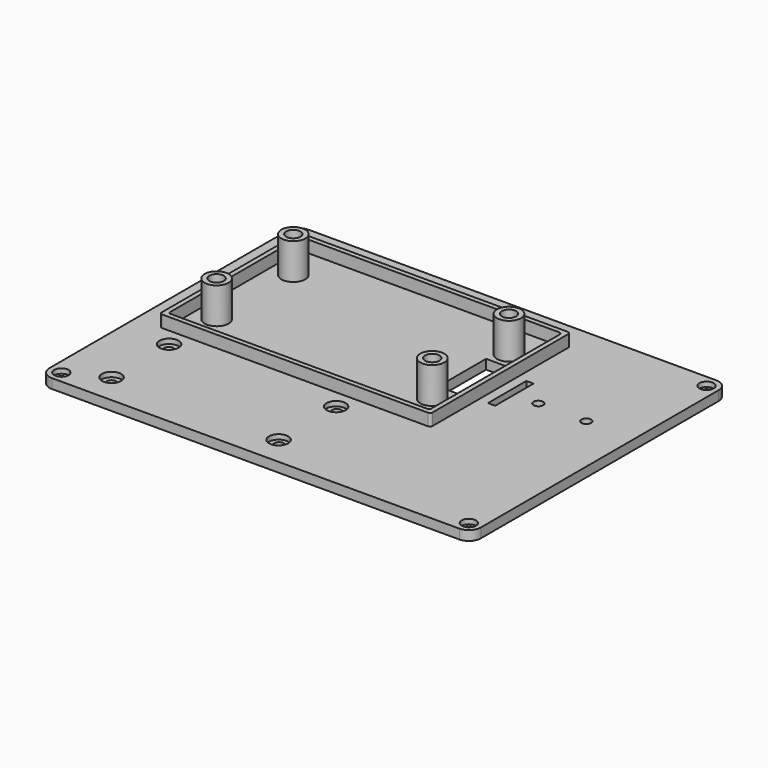
from build123d import *

# Parameters (mm, degrees)
SKETCH_W        = 180
SKETCH_H        = 134
PAD_DEPTH       = 4
SKETCH001_R     = 1.5
POCKET_DEPTH    = 4
SKETCH002_W     = 113
SKETCH002_H     = 73
SKETCH002_W_2   = 109
SKETCH002_H_2   = 69
PAD001_DEPTH    = 5
SKETCH003_R     = 2
SKETCH003_W     = 10
SKETCH003_H     = 25
POCKET001_DEPTH = 4
SKETCH004_R     = 3
POCKET002_DEPTH = 2
FILLET_R        = 5
FILLET001_R     = 5
FILLET002_R     = 5
FILLET003_R     = 5
FILLET004_R     = 1
FILLET005_R     = 1
FILLET006_R     = 1
FILLET007_R     = 1
FILLET008_R     = 1
FILLET009_R     = 1
FILLET010_R     = 1
FILLET011_R     = 1
SKETCH005_R     = 5
SKETCH005_R_2   = 3
PAD002_DEPTH    = 15
SKETCH006_R     = 2
SKETCH006_W     = 3
SKETCH006_H     = 20
POCKET003_DEPTH = 5
SKETCH007_R     = 4
POCKET004_DEPTH = 2


with BuildPart() as part:
    # Sketch → Pad (new body)
    with BuildSketch(Plane.XY):
        with Locations((90, 67)):
            Rectangle(SKETCH_W, SKETCH_H)
    extrude(amount=PAD_DEPTH)

    # Sketch001 → Pocket (cut)
    with BuildSketch(Plane.XY.offset(4)):
        with Locations((5, 129)):
            Circle(SKETCH001_R)
        with Locations((175, 129)):
            Circle(SKETCH001_R)
        with Locations((5, 5)):
            Circle(SKETCH001_R)
        with Locations((175, 5)):
            Circle(SKETCH001_R)
    extrude(amount=-POCKET_DEPTH, mode=Mode.SUBTRACT)

    # Sketch002 → Pad001 (new body)
    with BuildSketch(Plane.XY.offset(4)):
        with Locations((66.5, 86.5)):
            Rectangle(SKETCH002_W, SKETCH002_H)
        with Locations((66.5, 86.5)):
            Rectangle(SKETCH002_W_2, SKETCH002_H_2, mode=Mode.SUBTRACT)
    extrude(amount=PAD001_DEPTH)

    # Sketch003 → Pocket001 (cut)
    with BuildSketch(Plane.XY.offset(4)):
        with Locations((21, 106)):
            Circle(SKETCH003_R)
        with Locations((111, 106)):
            Circle(SKETCH003_R)
        with Locations((21, 66)):
            Circle(SKETCH003_R)
        with Locations((111, 66)):
            Circle(SKETCH003_R)
        with Locations((112, 86.5)):
            Rectangle(SKETCH003_W, SKETCH003_H)
    extrude(amount=-POCKET001_DEPTH, mode=Mode.SUBTRACT)

    # Sketch004 → Pocket002 (cut)
    with BuildSketch(Plane.XY.offset(4)):
        with Locations((5, 5)):
            Circle(SKETCH004_R)
        with Locations((175, 5)):
            Circle(SKETCH004_R)
        with Locations((5, 129)):
            Circle(SKETCH004_R)
        with Locations((175, 129)):
            Circle(SKETCH004_R)
    extrude(amount=-POCKET002_DEPTH, mode=Mode.SUBTRACT)

    # Fillet
    fillet_edges = [part.edges().sort_by_distance(p)[0] for p in [
        (0, 0, 2),
    ]]
    fillet(fillet_edges, radius=FILLET_R)

    # Fillet001
    fillet001_edges = [part.edges().sort_by_distance(p)[0] for p in [
        (180, 0, 2),
    ]]
    fillet(fillet001_edges, radius=FILLET001_R)

    # Fillet002
    fillet002_edges = [part.edges().sort_by_distance(p)[0] for p in [
        (180, 134, 2),
    ]]
    fillet(fillet002_edges, radius=FILLET002_R)

    # Fillet003
    fillet003_edges = [part.edges().sort_by_distance(p)[0] for p in [
        (0, 134, 2),
    ]]
    fillet(fillet003_edges, radius=FILLET003_R)

    # Fillet004
    fillet004_edges = [part.edges().sort_by_distance(p)[0] for p in [
        (10, 50, 6.5),
    ]]
    fillet(fillet004_edges, radius=FILLET004_R)

    # Fillet005
    fillet005_edges = [part.edges().sort_by_distance(p)[0] for p in [
        (12, 52, 6.5),
    ]]
    fillet(fillet005_edges, radius=FILLET005_R)

    # Fillet006
    fillet006_edges = [part.edges().sort_by_distance(p)[0] for p in [
        (123, 50, 6.5),
    ]]
    fillet(fillet006_edges, radius=FILLET006_R)

    # Fillet007
    fillet007_edges = [part.edges().sort_by_distance(p)[0] for p in [
        (121, 52, 6.5),
    ]]
    fillet(fillet007_edges, radius=FILLET007_R)

    # Fillet008
    fillet008_edges = [part.edges().sort_by_distance(p)[0] for p in [
        (121, 121, 6.5),
    ]]
    fillet(fillet008_edges, radius=FILLET008_R)

    # Fillet009
    fillet009_edges = [part.edges().sort_by_distance(p)[0] for p in [
        (123, 123, 6.5),
    ]]
    fillet(fillet009_edges, radius=FILLET009_R)

    # Fillet010
    fillet010_edges = [part.edges().sort_by_distance(p)[0] for p in [
        (10, 123, 6.5),
    ]]
    fillet(fillet010_edges, radius=FILLET010_R)

    # Fillet011
    fillet011_edges = [part.edges().sort_by_distance(p)[0] for p in [
        (12, 121, 6.5),
    ]]
    fillet(fillet011_edges, radius=FILLET011_R)

    # Sketch005 → Pad002 (new body)
    with BuildSketch(Plane.XY.offset(4)):
        with Locations((20.972518, 105.976831)):
            Circle(SKETCH005_R)
        with Locations((20.972518, 105.976831)):
            Circle(SKETCH005_R_2, mode=Mode.SUBTRACT)
        with Locations((110.972518, 105.976831)):
            Circle(SKETCH005_R)
        with Locations((110.972518, 105.976831)):
            Circle(SKETCH005_R_2, mode=Mode.SUBTRACT)
        with Locations((20.972518, 65.976831)):
            Circle(SKETCH005_R)
        with Locations((20.972518, 65.976831)):
            Circle(SKETCH005_R_2, mode=Mode.SUBTRACT)
        with Locations((110.972518, 65.954933)):
            Circle(SKETCH005_R)
        with Locations((110.972518, 65.954933)):
            Circle(SKETCH005_R_2, mode=Mode.SUBTRACT)
    extrude(amount=PAD002_DEPTH)

    # Sketch006 → Pocket003 (cut)
    with BuildSketch(Plane.XY.offset(4)):
        with Locations((140, 85)):
            Circle(SKETCH006_R)
        with Locations((160, 85)):
            Circle(SKETCH006_R)
        with Locations((19.909553, 42.382524)):
            Circle(SKETCH006_R)
        with Locations((19.909553, 12.382524)):
            Circle(SKETCH006_R)
        with Locations((89.909553, 42.382524)):
            Circle(SKETCH006_R)
        with Locations((89.909553, 12.382524)):
            Circle(SKETCH006_R)
        with Locations((128.5, 85)):
            Rectangle(SKETCH006_W, SKETCH006_H)
    extrude(amount=-POCKET003_DEPTH, mode=Mode.SUBTRACT)

    # Sketch007 → Pocket004 (cut)
    with BuildSketch(Plane.XY.offset(4)):
        with Locations((19.919851, 42.5)):
            Circle(SKETCH007_R)
        with Locations((19.919851, 12.5)):
            Circle(SKETCH007_R)
        with Locations((89.919851, 42.132044)):
            Circle(SKETCH007_R)
        with Locations((89.919851, 12.132044)):
            Circle(SKETCH007_R)
    extrude(amount=-POCKET004_DEPTH, mode=Mode.SUBTRACT)


solid = part.part
